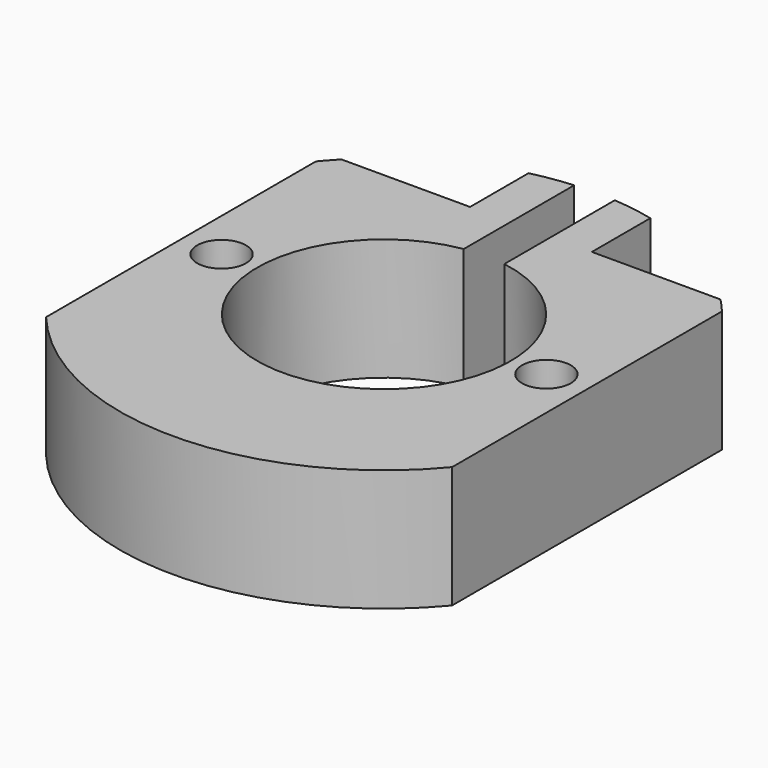
from build123d import *

# Parameters (mm, degrees)
F1_DEPTH = 19.05
F2_R     = 3.81
F3_DEPTH = 25.4
F4_R     = 3.81
F5_DEPTH = 25.4


with BuildPart() as f1:
    # F0 (on Top) → F1 (new body)
    with BuildSketch(Plane.XY):
        with BuildLine():
            Line((-3.175, 19.555938), (-3.175, 41.152703))
            ThreePointArc((-3.175, 41.152703), (-6.369333, 40.780599), (-9.525, 40.160926))
            Line((-9.525, 40.160926), (-9.525, 28.730926))
            Line((-9.525, 28.730926), (-29.633756, 28.730926))
            ThreePointArc((-29.633756, 28.730926), (-30.714503, 27.572539), (-31.75, 26.373531))
            Line((-31.75, 26.373531), (-31.75, -26.373531))
            ThreePointArc((-31.75, -26.373531), (0, -41.275), (31.75, -26.373531))
            Line((31.75, -26.373531), (31.75, 26.373531))
            ThreePointArc((31.75, 26.373531), (30.714503, 27.572539), (29.633756, 28.730926))
            Line((29.633756, 28.730926), (9.525, 28.730926))
            Line((9.525, 28.730926), (9.525, 40.160926))
            ThreePointArc((9.525, 40.160926), (6.369333, 40.780599), (3.175, 41.152703))
            Line((3.175, 41.152703), (3.175, 19.555938))
            ThreePointArc((3.175, 19.555938), (0, -19.812), (-3.175, 19.555938))
        make_face()
    extrude(amount=F1_DEPTH)

    # F2 (on face) → F3 (cut)
    with BuildSketch(Plane.XY.offset(19.05)):
        with Locations((25.4, 0)):
            Circle(F2_R)
        with Locations((-25.4, 0)):
            Circle(F2_R)
    extrude(amount=-F3_DEPTH, mode=Mode.SUBTRACT)

    # F4 (on face) → F5 (cut)
    with BuildSketch(Plane.YZ.offset(9.525)):
        with Locations((34.802703, 9.525)):
            Circle(F4_R)
    extrude(amount=-F5_DEPTH, mode=Mode.SUBTRACT)


solid = f1.part
